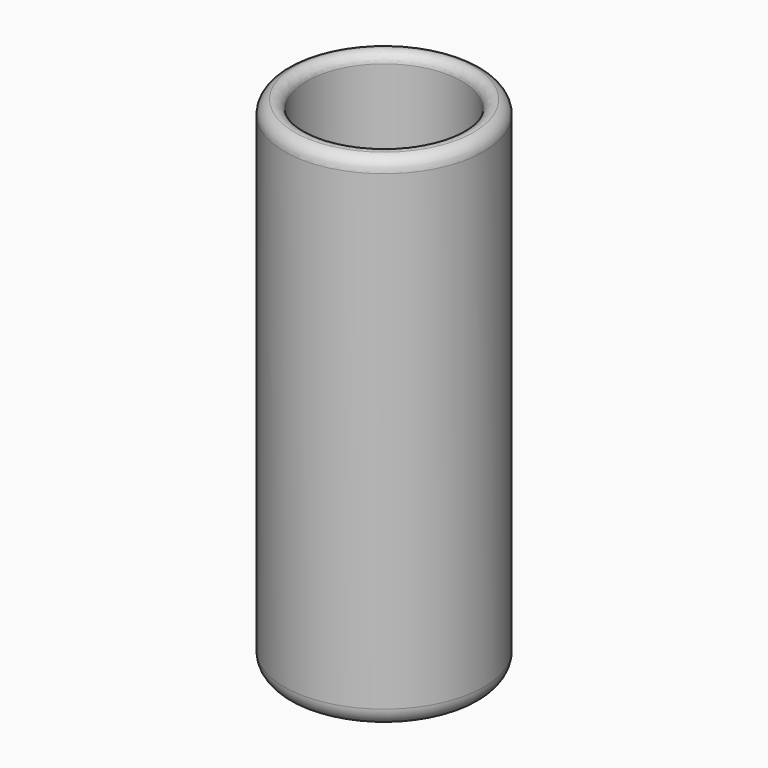
from build123d import *

# Parameters (mm, degrees)
F0_R     = 53.7888779042
F1_DEPTH = 271.78
F2_T     = -12
F3_R     = 7.62
F4_R     = 5.08
F5_R     = 10


with BuildPart() as f1:
    # F0 (on Top) → F1 (new body)
    with BuildSketch(Plane.XY):
        Circle(F0_R)
    extrude(amount=F1_DEPTH)

    # F2
    f2_openings = [f1.faces().sort_by_distance(p)[0] for p in [
        (0, 0, 271.78),
    ]]
    offset(amount=F2_T, openings=f2_openings)

    # F3
    f3_edges = [f1.edges().sort_by_distance(p)[0] for p in [
        (-53.788878, 0, 271.78),
    ]]
    fillet(f3_edges, radius=F3_R)

    # F4
    f4_edges = [f1.edges().sort_by_distance(p)[0] for p in [
        (-41.788878, 0, 271.78),
    ]]
    fillet(f4_edges, radius=F4_R)

    # F5
    f5_edges = [f1.edges().sort_by_distance(p)[0] for p in [
        (-53.788878, 0, 0),
        (53.788878, 0, 132.08),
        (-53.788878, 0, 264.16),
    ]]
    fillet(f5_edges, radius=F5_R)


solid = f1.part
